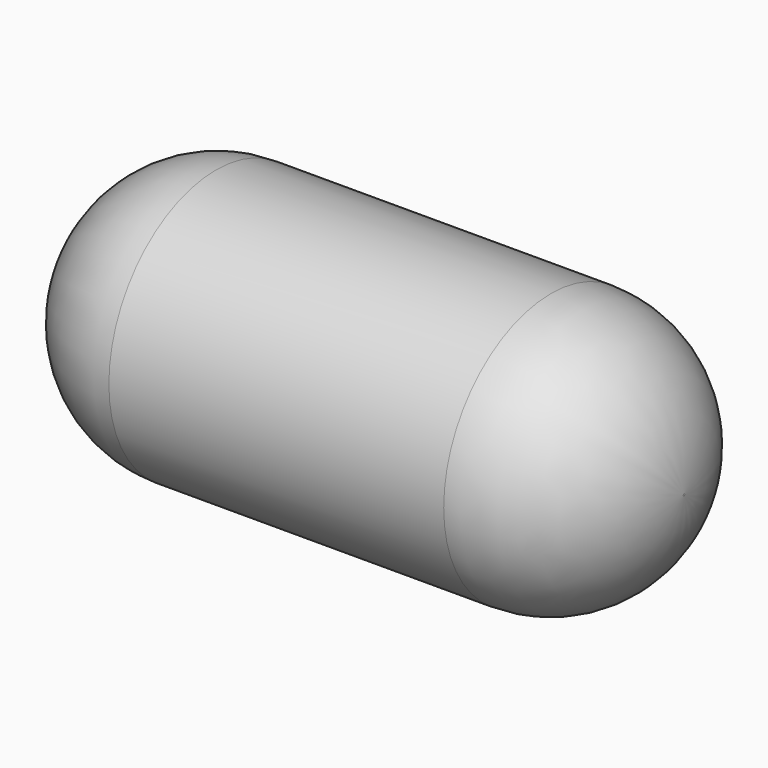
from build123d import *

# Parameters (mm, degrees)
F0_R     = 42.633401
F1_DEPTH = 190.5
F2_R     = 42.311507
F3_R     = 41.698297


with BuildPart() as f1:
    # F0 (on Right) → F1 (new body)
    with BuildSketch(Plane.YZ):
        Circle(F0_R)
    extrude(amount=F1_DEPTH)

    # F2
    f2_edges = [f1.edges().sort_by_distance(p)[0] for p in [
        (190.5, -42.633401, 0),
    ]]
    fillet(f2_edges, radius=F2_R)

    # F3
    f3_edges = [f1.edges().sort_by_distance(p)[0] for p in [
        (0, -42.633401, 0),
    ]]
    fillet(f3_edges, radius=F3_R)


solid = f1.part
